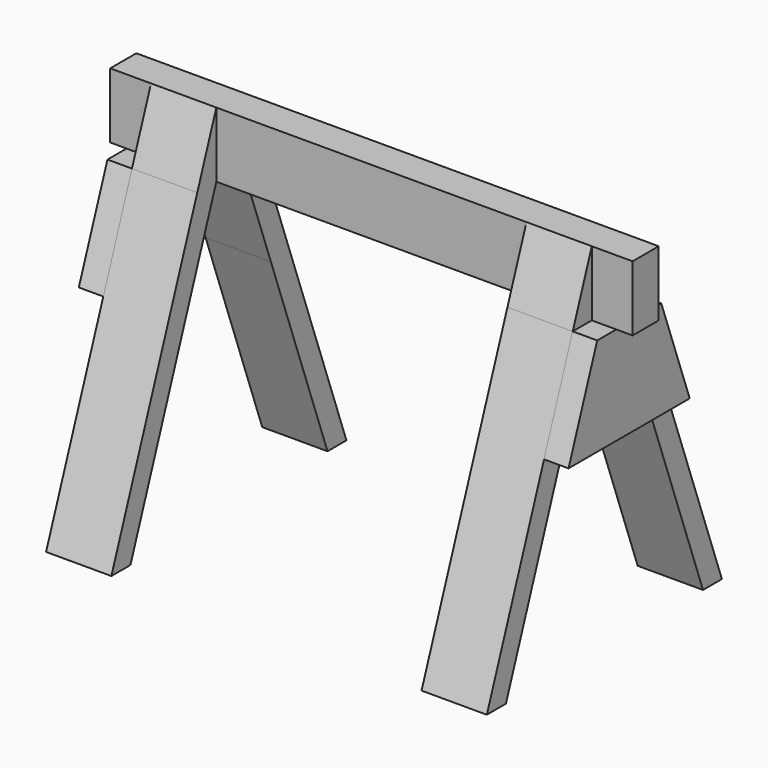
from build123d import *

# Parameters (mm, degrees)
F0_W     = 6.35
F0_H     = 12.7
F1_DEPTH = 101.6
F2_START = -7.9375
F2_DEPTH = 12.7
F3_START = -80.9625
F3_DEPTH = 12.7
F4_START = -3.175
F4_DEPTH = 4.7752
F5_START = -93.6498
F5_DEPTH = 4.7752


with BuildPart() as f1:
    # F0 (on Right) → F1 (new body)
    with BuildSketch(Plane.YZ):
        with Locations((-1.5206841388, 27.3374924831)):
            Rectangle(F0_W, F0_H)
    extrude(amount=-F1_DEPTH)

    # F0 (on Right) → F2 (join)
    with BuildSketch(Plane.YZ.offset(F2_START)):
        Polygon((-25.5710205025, -36.1625075169), (-11.6614542497, 1.9174399149), (-16.300417886, 1.9174399149), (-30.2099841388, -36.1625075169), align=None)
        Polygon((13.1550748908, 1.9174399149), (8.5576748908, 1.9174399149), (22.3426158612, -36.1625075169), (26.9400158612, -36.1625075169), align=None)
        Polygon((-4.6956841388, 20.9874924831), (-4.6956841388, 33.6874924831), (-9.3346477752, 20.9874924831), align=None)
        Polygon((6.2517158612, 20.9874924831), (1.6543158612, 33.6874924831), (1.6543158612, 20.9874924831), align=None)
        with Locations((-1.5206841388, 27.3374924831)):
            Rectangle(F0_W, F0_H)
        Polygon((-11.6614542497, 1.9174399149), (-4.6956841388, 20.9874924831), (-9.3346477752, 20.9874924831), (-16.300417886, 1.9174399149), align=None)
        Polygon((6.2517158612, 20.9874924831), (1.6543158612, 20.9874924831), (8.5576748908, 1.9174399149), (13.1550748908, 1.9174399149), align=None)
    extrude(amount=-F2_DEPTH)

    # F0 (on Right) → F3 (join)
    with BuildSketch(Plane.YZ.offset(F3_START)):
        Polygon((-25.5710205025, -36.1625075169), (-11.6614542497, 1.9174399149), (-16.300417886, 1.9174399149), (-30.2099841388, -36.1625075169), align=None)
        Polygon((13.1550748908, 1.9174399149), (8.5576748908, 1.9174399149), (22.3426158612, -36.1625075169), (26.9400158612, -36.1625075169), align=None)
        Polygon((6.2517158612, 20.9874924831), (1.6543158612, 20.9874924831), (8.5576748908, 1.9174399149), (13.1550748908, 1.9174399149), align=None)
        Polygon((-11.6614542497, 1.9174399149), (-4.6956841388, 20.9874924831), (-9.3346477752, 20.9874924831), (-16.300417886, 1.9174399149), align=None)
        Polygon((-4.6956841388, 20.9874924831), (-4.6956841388, 33.6874924831), (-9.3346477752, 20.9874924831), align=None)
        Polygon((6.2517158612, 20.9874924831), (1.6543158612, 33.6874924831), (1.6543158612, 20.9874924831), align=None)
    extrude(amount=-F3_DEPTH)


with BuildPart() as f4:
    # F0 (on Right) → F4 (new body)
    with BuildSketch(Plane.YZ.offset(F4_START)):
        Polygon((1.6543158612, 20.9874924831), (-4.6956841388, 20.9874924831), (-11.6614542497, 1.9174399149), (6.1924366594, 1.9174399149), (8.5576748908, 1.9174399149), align=None)
        Polygon((-11.6614542497, 1.9174399149), (-4.6956841388, 20.9874924831), (-9.3346477752, 20.9874924831), (-16.300417886, 1.9174399149), align=None)
        Polygon((6.2517158612, 20.9874924831), (1.6543158612, 20.9874924831), (8.5576748908, 1.9174399149), (13.1550748908, 1.9174399149), align=None)
    extrude(amount=-F4_DEPTH)


with BuildPart() as f5:
    # F0 (on Right) → F5 (new body)
    with BuildSketch(Plane.YZ.offset(F5_START)):
        Polygon((-11.6614542497, 1.9174399149), (-4.6956841388, 20.9874924831), (-9.3346477752, 20.9874924831), (-16.300417886, 1.9174399149), align=None)
        Polygon((1.6543158612, 20.9874924831), (-4.6956841388, 20.9874924831), (-11.6614542497, 1.9174399149), (6.1924366594, 1.9174399149), (8.5576748908, 1.9174399149), align=None)
        Polygon((6.2517158612, 20.9874924831), (1.6543158612, 20.9874924831), (8.5576748908, 1.9174399149), (13.1550748908, 1.9174399149), align=None)
    extrude(amount=-F5_DEPTH)


solid = Compound([f1.part, f4.part, f5.part])
